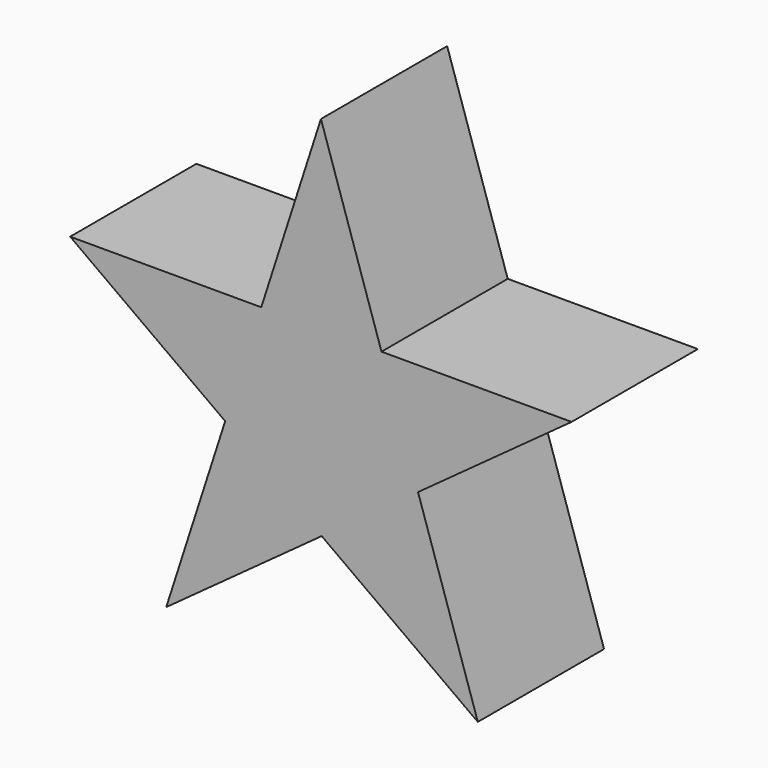
from build123d import *

# Parameters (mm, degrees)
F2_DEPTH = 25


with BuildPart() as f2:
    # F1 (on face) → F2 (new body)
    with BuildSketch(Plane.XZ):
        Polygon((9.5947289367, 12.933765538), (0, 42.278226465), (-9.4556037773, 12.933765538), align=None)
        Polygon((9.5947289367, 12.933765538), (-9.4556037773, 12.933765538), (-15.1755097815, -4.8173545596), (0.1207542754, -15.8718874525), (15.3832069723, -4.7696806626), align=None)
        Polygon((-15.1755097815, -4.8173545596), (-9.4556037773, 12.933765538), (-39.737906307, 12.933765538), align=None)
        Polygon((39.720531553, 12.933765538), (9.5947289367, 12.933765538), (15.3832069723, -4.7696806626), align=None)
        Polygon((0.1207542754, -15.8718874525), (-15.1755097815, -4.8173545596), (-24.5111901313, -33.7896458805), align=None)
        Polygon((24.8588733375, -33.7500013411), (15.3832069723, -4.7696806626), (0.1207542754, -15.8718874525), align=None)
    extrude(amount=F2_DEPTH)


solid = f2.part
